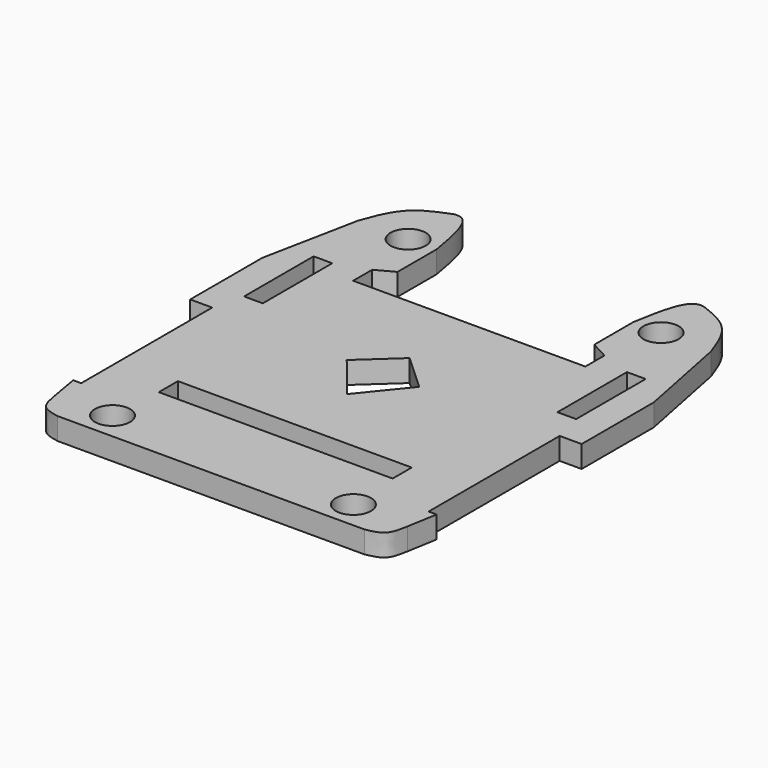
from build123d import *

# Parameters (mm, degrees)
F0_R     = 1.6
F1_DEPTH = 2
F2_W     = 1.7
F2_H     = 0.75
F3_DEPTH = 25


with BuildPart() as f1:
    # F0 (on Top) → F1 (new body)
    with BuildSketch(Plane.XY):
        with BuildLine():
            Line((32.5903408229, 27.0907320082), (22.0303104318, 27.0907320082))
            Line((22.0303104318, 27.0907320082), (11.4702800406, 27.0907320082))
            Line((11.4702800406, 27.0907320082), (11.4702800406, 29.2609930038))
            Line((11.4702800406, 29.2609930038), (13.0805661902, 30.1199462265))
            Line((13.0805661902, 30.1199462265), (13.0805661902, 34.5553010702))
            add(Edge.make_bspline(
                [(10.6339850279, 39.5480683745), (10.9306890141, 39.6041277732), (12.2246031458, 39.5298637672), (12.7034905182, 36.7467351328), (13.0805661902, 34.5553010702)],
                knots=[0.2319129458, 0.2319129458, 0.2319129458, 0.2319129458, 0.3952086465, 1, 1, 1, 1], degree=3))
            Line((10.6339850279, 39.5480683745), (10.5303104318, 39.4987425759))
            add(Edge.make_bspline(
                [(5.9637269754, 34.5188772837), (6.3922966272, 35.7597207754), (7.3354107411, 38.130874007), (9.2826432739, 39.0193902227), (10.5303104318, 39.4987425759)],
                knots=[0, 0, 0, 0, 0.51039131, 1, 1, 1, 1], degree=3))
            Line((5.9637269754, 34.5188772837), (4.2303104318, 25.8181473703))
            Line((4.2303104318, 25.8181473703), (4.2303104318, 17.6188772837))
            Line((4.2303104318, 17.6188772837), (6.2303104318, 17.6188772837))
            Line((6.2303104318, 17.6188772837), (6.2303104318, 2.7244150473))
            Line((6.2303104318, 2.7244150473), (5.5028250656, 2.7244150473))
            Line((5.5028250656, 2.7244150473), (5.9743104318, 0))
            add(Edge.make_bspline(
                [(5.9743104318, 0), (6.088008066, -0.6516872485), (6.3100244725, -1.9242314134), (7.4977967132, -2.1580185426), (8.0772945657, -2.2720800897)],
                knots=[0, 0, 0, 0, 0.512113659, 1, 1, 1, 1], degree=3))
            Line((8.0772945657, -2.2720800897), (35.9833262978, -2.2720800897))
            add(Edge.make_bspline(
                [(38.0863104318, 0), (37.9726127975, -0.6516872485), (37.7505963911, -1.9242314134), (36.5628241503, -2.1580185426), (35.9833262978, -2.2720800897)],
                knots=[0, 0, 0, 0, 0.512113659, 1, 1, 1, 1], degree=3))
            Line((38.0863104318, 0), (38.557795798, 2.7244150473))
            Line((38.557795798, 2.7244150473), (37.8303104318, 2.7244150473))
            Line((37.8303104318, 2.7244150473), (37.8303104318, 17.6188772837))
            Line((37.8303104318, 17.6188772837), (39.8303104318, 17.6188772837))
            Line((39.8303104318, 17.6188772837), (39.8303104318, 25.8181473703))
            Line((39.8303104318, 25.8181473703), (38.0968938881, 34.5188772837))
            add(Edge.make_bspline(
                [(38.0968938881, 34.5188772837), (37.6683242364, 35.7597207754), (36.7252101224, 38.130874007), (34.7779775897, 39.0193902227), (33.5303104318, 39.4987425759)],
                knots=[0, 0, 0, 0, 0.51039131, 1, 1, 1, 1], degree=3))
            ThreePointArc((33.5303104318, 39.4987425759), (33.4296251455, 39.5315079606), (33.3288465073, 39.5639850816))
            add(Edge.make_bspline(
                [(33.3288465073, 39.5639850816), (33.0694361442, 39.5991271226), (31.8247391001, 39.4643163221), (31.3571303454, 36.7467351328), (30.9800546734, 34.5553010702)],
                knots=[0.2500027112, 0.2500027112, 0.2500027112, 0.2500027112, 0.3952086465, 1, 1, 1, 1], degree=3))
            Line((30.9800546734, 34.5553010702), (30.9800546734, 30.1199462265))
            Line((30.9800546734, 30.1199462265), (32.5903408229, 29.2609930038))
            Line((32.5903408229, 29.2609930038), (32.5903408229, 27.0907320082))
        make_face()
        with Locations((11.0743104318, 0.2279199103)):
            Circle(F0_R, mode=Mode.SUBTRACT)
        with BuildLine():
            ThreePointArc((10.9419774016, 2.7244150473), (11.0743104318, 2.7279199103), (11.2066434619, 2.7244150473))
            Line((11.2066434619, 2.7244150473), (10.9419774016, 2.7244150473))
        make_face(mode=Mode.SUBTRACT)
        Polygon((11.5445189413, 7.2601027762), (22.0303104318, 7.2601027762), (32.5161019223, 7.2601027762), (32.6645797236, 7.2601027762), (32.6645797236, 5.0898417806), (32.5161019223, 5.0898417806), (11.5445189413, 5.0898417806), (11.39604114, 5.0898417806), (11.39604114, 7.2601027762), align=None, mode=Mode.SUBTRACT)
        with Locations((32.9863104318, 0.2279199103)):
            Circle(F0_R, mode=Mode.SUBTRACT)
        Polygon((25.3286138177, 17.286), (22.0303104318, 13.222059235), (18.7320070459, 17.286), (22.0303104318, 20.3086156398), align=None, mode=Mode.SUBTRACT)
        Polygon((7.7803104318, 21.1188772837), (6.9303104318, 21.1188772837), (6.9303104318, 27.5188772837), (7.7803104318, 27.5188772837), (8.6303104318, 27.5188772837), (8.6303104318, 21.1188772837), align=None, mode=Mode.SUBTRACT)
        with Locations((10.5303104318, 34.5188772837)):
            Circle(F0_R, mode=Mode.SUBTRACT)
        Polygon((35.4303104318, 21.1188772837), (35.4303104318, 27.5188772837), (36.2803104318, 27.5188772837), (37.1303104318, 27.5188772837), (37.1303104318, 21.1188772837), (36.2803104318, 21.1188772837), align=None, mode=Mode.SUBTRACT)
        with Locations((33.5303104318, 34.5188772837)):
            Circle(F0_R, mode=Mode.SUBTRACT)
    extrude(amount=F1_DEPTH)

    # F2 (on face) → F3 (cut)
    with BuildSketch(Plane.XY.offset(2)):
        with Locations((7.7803104318, 27.8938772837)):
            Rectangle(F2_W, F2_H)
        with Locations((7.7803104318, 20.7438772837)):
            Rectangle(F2_W, F2_H)
        with Locations((36.2803104318, 27.8938772837)):
            Rectangle(F2_W, F2_H)
        with Locations((36.2803104318, 20.7438772837)):
            Rectangle(F2_W, F2_H)
    extrude(amount=-F3_DEPTH, mode=Mode.SUBTRACT)


solid = f1.part
